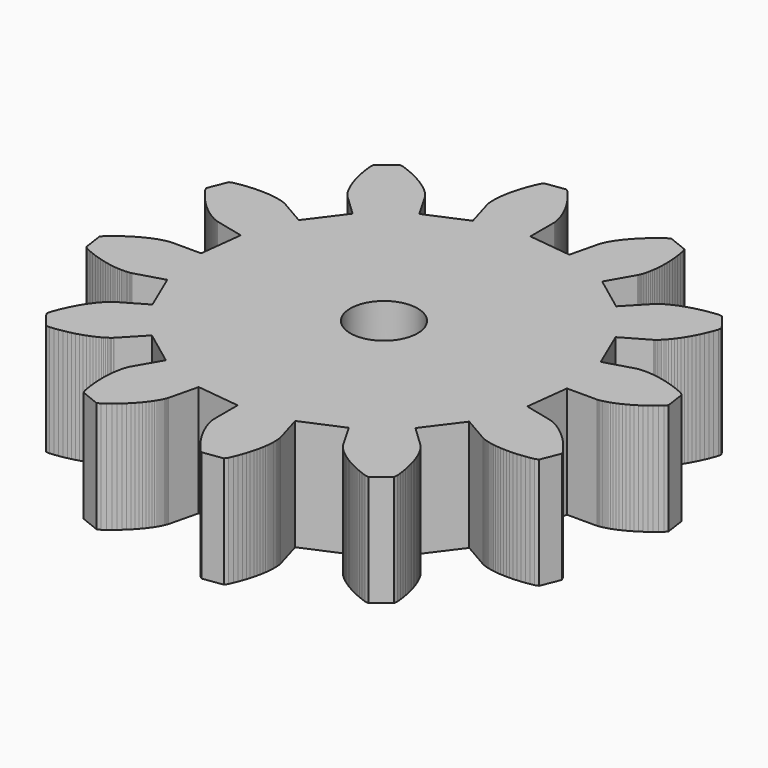
from build123d import *

# Parameters (mm, degrees)
F0_R     = 1.968172
F1_DEPTH = 6.5


with BuildPart() as f1:
    # F0 (on Top) → F1 (new body)
    with BuildSketch(Plane.XY):
        Polygon((10.393121, -2.51902), (10.693603, 2.5e-05), (12.445187, 2.5e-05), (12.467031, 0.001397), (12.498781, 0.004166), (12.541453, 0.009677), (12.595301, 0.017958), (12.658801, 0.028956), (12.731699, 0.04412), (12.814503, 0.064795), (12.906705, 0.089611), (13.008813, 0.119913), (13.119049, 0.157124), (13.238937, 0.201219), (13.366953, 0.252197), (13.502081, 0.311455), (13.646861, 0.378993), (13.796975, 0.456184), (13.955471, 0.54163), (14.119301, 0.636702), (14.290243, 0.742798), (14.466773, 0.859942), (14.648637, 0.988085), (14.834565, 1.127277), (15.024811, 1.278865), (15.217597, 1.44145), (15.349931, 1.61097), (15.181783, 2.780919), (15.006777, 2.906319), (14.775383, 3.009697), (14.550847, 3.100629), (14.332915, 3.181909), (14.122095, 3.253588), (13.920927, 3.315589), (13.726617, 3.369335), (13.541959, 3.414827), (13.365683, 3.452038), (13.200329, 3.483712), (13.043103, 3.50713), (12.895783, 3.526434), (12.757861, 3.538855), (12.631115, 3.54711), (12.514021, 3.551225), (12.407849, 3.552622), (12.312853, 3.551225), (12.227509, 3.54711), (12.152833, 3.540227), (12.089587, 3.533318), (12.035739, 3.526434), (11.993067, 3.519551), (11.961317, 3.512642), (11.940743, 3.508527), (11.928297, 3.505759), (10.259517, 3.015183), (9.260459, 5.346852), (10.768025, 6.216371), (10.777677, 6.223254), (10.795711, 6.235675), (10.821873, 6.253582), (10.856163, 6.279769), (10.898835, 6.312814), (10.948619, 6.354166), (11.003737, 6.403772), (11.065713, 6.46303), (11.133277, 6.530543), (11.204905, 6.607734), (11.283391, 6.695923), (11.364671, 6.793763), (11.448745, 6.902628), (11.536883, 7.021119), (11.627815, 7.15203), (11.720271, 7.293991), (11.815267, 7.44695), (11.908993, 7.612304), (12.003989, 7.788707), (12.099239, 7.978877), (12.191441, 8.18007), (12.283897, 8.393684), (12.372035, 8.619668), (12.458903, 8.858072), (12.487859, 9.070264), (11.756085, 9.999167), (11.543995, 10.021265), (11.291773, 9.993579), (11.050473, 9.960559), (10.821873, 9.921951), (10.603941, 9.879279), (10.397439, 9.832289), (10.203129, 9.781362), (10.019741, 9.72759), (9.848799, 9.672498), (9.689008, 9.615983), (9.541586, 9.559493), (9.405163, 9.501607), (9.279738, 9.44372), (9.165387, 9.38723), (9.062009, 9.333484), (8.96968, 9.281135), (8.888374, 9.231528), (8.816721, 9.184665), (8.75472, 9.14334), (8.702345, 9.104732), (8.661019, 9.071635), (8.603132, 9.023426), (8.586572, 9.008288), (8.578317, 9.000007), (7.378065, 7.740472), (5.346852, 9.260459), (6.216371, 10.768025), (6.221882, 10.777677), (6.231534, 10.796981), (6.245301, 10.827207), (6.263208, 10.867339), (6.282512, 10.916869), (6.304559, 10.977575), (6.326607, 11.047679), (6.351397, 11.128959), (6.376213, 11.222685), (6.399632, 11.326063), (6.42305, 11.440617), (6.445098, 11.565839), (6.464402, 11.702237), (6.480962, 11.849811), (6.494755, 12.008307), (6.504381, 12.176455), (6.508496, 12.356795), (6.508496, 12.547041), (6.501613, 12.748209), (6.489217, 12.959029), (6.468542, 13.179501), (6.440983, 13.411149), (6.405169, 13.650925), (6.359677, 13.900353), (6.279769, 14.098727), (5.181448, 14.538401), (4.985766, 14.450009), (4.781829, 14.299895), (4.590263, 14.151051), (4.411142, 14.003731), (4.244416, 13.857681), (4.088663, 13.712901), (3.945357, 13.572439), (3.814445, 13.434517), (3.693185, 13.302183), (3.582949, 13.172643), (3.483712, 13.048691), (3.394151, 12.930073), (3.314217, 12.818567), (3.243936, 12.712395), (3.181909, 12.614605), (3.126816, 12.522149), (3.081325, 12.438075), (3.042742, 12.362383), (3.009697, 12.294819), (2.984856, 12.236907), (2.96418, 12.187377), (2.949042, 12.145975), (2.937993, 12.115749), (2.932506, 12.095175), (2.928366, 12.083999), (2.51907, 10.393121), (2.5e-05, 10.693603), (2.5e-05, 12.445187), (-0.001346, 12.467031), (-0.004089, 12.498781), (-0.009601, 12.541453), (-0.017882, 12.595301), (-0.028905, 12.658801), (-0.044069, 12.731699), (-0.064745, 12.814503), (-0.089535, 12.906705), (-0.119837, 13.008813), (-0.157048, 13.119049), (-0.201168, 13.238937), (-0.25212, 13.366953), (-0.311404, 13.502081), (-0.378917, 13.646861), (-0.456108, 13.796975), (-0.541553, 13.955471), (-0.636626, 14.119301), (-0.742747, 14.290243), (-0.859866, 14.466773), (-0.988035, 14.648637), (-1.127201, 14.834565), (-1.278788, 15.024811), (-1.441374, 15.217597), (-1.610893, 15.349931), (-2.780843, 15.181783), (-2.906268, 15.006777), (-3.009595, 14.775383), (-3.100578, 14.550847), (-3.181858, 14.332915), (-3.253537, 14.122095), (-3.315513, 13.920927), (-3.369285, 13.726617), (-3.414751, 13.541959), (-3.451962, 13.365683), (-3.483635, 13.200329), (-3.50708, 13.043103), (-3.526358, 12.895783), (-3.538753, 12.757861), (-3.547034, 12.631115), (-3.551174, 12.514021), (-3.552546, 12.407849), (-3.551174, 12.312853), (-3.547034, 12.227509), (-3.54015, 12.152833), (-3.533242, 12.089587), (-3.526358, 12.035739), (-3.5195, 11.993067), (-3.512566, 11.961317), (-3.508451, 11.940743), (-3.505683, 11.928297), (-3.015132, 10.259517), (-5.346725, 9.260459), (-6.216294, 10.768025), (-6.223178, 10.777677), (-6.235598, 10.795711), (-6.253505, 10.821873), (-6.279693, 10.856163), (-6.312738, 10.898835), (-6.354089, 10.948619), (-6.403696, 11.003737), (-6.462954, 11.065713), (-6.530492, 11.133277), (-6.607658, 11.204905), (-6.695872, 11.283391), (-6.793687, 11.364671), (-6.902552, 11.448745), (-7.021043, 11.536883), (-7.15198, 11.627815), (-7.29394, 11.720271), (-7.446899, 11.815267), (-7.612253, 11.908993), (-7.788631, 12.003989), (-7.9788, 12.099239), (-8.179994, 12.191441), (-8.393608, 12.283897), (-8.619592, 12.372035), (-8.857996, 12.458903), (-9.070188, 12.487859), (-9.998989, 11.756085), (-10.021037, 11.543995), (-9.993503, 11.291773), (-9.960432, 11.050473), (-9.92185, 10.821873), (-9.879127, 10.603941), (-9.832264, 10.397439), (-9.781286, 10.203129), (-9.72754, 10.019741), (-9.672422, 9.848799), (-9.615907, 9.689008), (-9.559442, 9.541586), (-9.50153, 9.405163), (-9.443644, 9.279738), (-9.38718, 9.165387), (-9.333408, 9.062009), (-9.281058, 8.96968), (-9.231452, 8.888374), (-9.184615, 8.816721), (-9.143263, 8.75472), (-9.104655, 8.702345), (-9.071585, 8.661019), (-9.02335, 8.603132), (-9.008212, 8.586572), (-8.999931, 8.578317), (-7.740396, 7.378065), (-9.260383, 5.346852), (-10.767949, 6.216371), (-10.777601, 6.221882), (-10.796905, 6.231534), (-10.827207, 6.245301), (-10.867187, 6.263208), (-10.916793, 6.282512), (-10.977423, 6.304559), (-11.047705, 6.326607), (-11.12901, 6.351397), (-11.222711, 6.376213), (-11.326063, 6.399632), (-11.440439, 6.42305), (-11.565865, 6.445098), (-11.702263, 6.464402), (-11.84971, 6.480962), (-12.008206, 6.494755), (-12.176303, 6.504381), (-12.356821, 6.508496), (-12.547016, 6.508496), (-12.748209, 6.501613), (-12.959029, 6.489217), (-13.179527, 6.468542), (-13.411022, 6.440983), (-13.650824, 6.405169), (-13.900226, 6.359677), (-14.098676, 6.279769), (-14.538274, 5.181448), (-14.450085, 4.985766), (-14.29987, 4.781829), (-14.151051, 4.590263), (-14.003579, 4.411142), (-13.857529, 4.244416), (-13.712825, 4.088663), (-13.572261, 3.945357), (-13.434466, 3.814445), (-13.302158, 3.693185), (-13.172643, 3.582949), (-13.048615, 3.483712), (-12.930099, 3.394151), (-12.818466, 3.314217), (-12.71237, 3.243936), (-12.614529, 3.181909), (-12.5222, 3.126816), (-12.438126, 3.081325), (-12.362358, 3.042742), (-12.294819, 3.009697), (-12.236933, 2.984856), (-12.187326, 2.96418), (-12.146001, 2.949042), (-12.115673, 2.937993), (-12.094997, 2.932506), (-12.083974, 2.928366), (-10.393121, 2.51907), (-10.693552, 2.5e-05), (-12.445035, 2.5e-05), (-12.467082, -0.001346), (-12.498781, -0.004089), (-12.541504, -0.009601), (-12.595225, -0.017882), (-12.658623, -0.028905), (-12.731648, -0.044069), (-12.814351, -0.064745), (-12.90668, -0.089535), (-13.008635, -0.119837), (-13.118897, -0.157048), (-13.238785, -0.201168), (-13.366928, -0.25212), (-13.50198, -0.311404), (-13.646683, -0.378917), (-13.796874, -0.456108), (-13.95537, -0.541553), (-14.119352, -0.636626), (-14.290218, -0.742747), (-14.466621, -0.859866), (-14.64851, -0.988035), (-14.83454, -1.127201), (-15.02471, -1.278788), (-15.217648, -1.441374), (-15.349931, -1.610893), (-15.181809, -2.780843), (-15.006803, -2.906268), (-14.775282, -3.009595), (-14.550669, -3.100578), (-14.332941, -3.181858), (-14.122095, -3.253537), (-13.920902, -3.315513), (-13.726617, -3.369285), (-13.541959, -3.414751), (-13.365556, -3.451962), (-13.200202, -3.483635), (-13.043103, -3.50708), (-12.895656, -3.526358), (-12.757836, -3.538753), (-12.631064, -3.547034), (-12.51392, -3.551174), (-12.407824, -3.552546), (-12.312726, -3.551174), (-12.227306, -3.547034), (-12.152884, -3.54015), (-12.089486, -3.533242), (-12.035765, -3.526358), (-11.993042, -3.5195), (-11.961317, -3.512566), (-11.940692, -3.508451), (-11.928272, -3.505683), (-10.259441, -3.015132), (-9.260383, -5.346725), (-10.767949, -6.216294), (-10.777601, -6.223178), (-10.795533, -6.235598), (-10.821695, -6.253505), (-10.856138, -6.279693), (-10.898861, -6.312738), (-10.948492, -6.354089), (-11.00361, -6.403696), (-11.065612, -6.462954), (-11.13315, -6.530492), (-11.204778, -6.607658), (-11.28334, -6.695872), (-11.36462, -6.793687), (-11.448694, -6.902552), (-11.536883, -7.021043), (-11.627841, -7.15198), (-11.720195, -7.29394), (-11.815267, -7.446899), (-11.908968, -7.612253), (-12.00404, -7.788631), (-12.099138, -7.9788), (-12.191467, -8.179994), (-12.283796, -8.393608), (-12.371984, -8.619592), (-12.458802, -8.857996), (-12.487758, -9.070188), (-11.756009, -9.998989), (-11.543817, -10.021037), (-11.291595, -9.993503), (-11.050448, -9.960432), (-10.821695, -9.92185), (-10.603967, -9.879127), (-10.397287, -9.832264), (-10.202977, -9.781286), (-10.019665, -9.72754), (-9.848825, -9.672422), (-9.688932, -9.615907), (-9.54151, -9.559442), (-9.405087, -9.50153), (-9.279687, -9.443644), (-9.165311, -9.38718), (-9.061933, -9.333408), (-8.969629, -9.281058), (-8.888298, -9.231452), (-8.81667, -9.184615), (-8.754643, -9.143263), (-8.702294, -9.104655), (-8.660943, -9.071585), (-8.603056, -9.02335), (-8.586495, -9.008212), (-8.57824, -8.999931), (-7.377989, -7.740396), (-5.346725, -9.260383), (-6.216294, -10.767949), (-6.221806, -10.777601), (-6.231458, -10.796905), (-6.245225, -10.827207), (-6.263157, -10.867187), (-6.282436, -10.916793), (-6.304483, -10.977423), (-6.32653, -11.047705), (-6.351346, -11.12901), (-6.376137, -11.222711), (-6.399555, -11.326063), (-6.423, -11.440439), (-6.445047, -11.565865), (-6.464325, -11.702263), (-6.480886, -11.84971), (-6.494678, -12.008206), (-6.504305, -12.176303), (-6.508445, -12.356821), (-6.508445, -12.547016), (-6.501562, -12.748209), (-6.489141, -12.959029), (-6.468466, -13.179527), (-6.440907, -13.411022), (-6.405067, -13.650824), (-6.359601, -13.900226), (-6.279693, -14.098676), (-5.181397, -14.538274), (-4.985715, -14.450085), (-4.781753, -14.29987), (-4.590212, -14.151051), (-4.411066, -14.003579), (-4.244315, -13.857529), (-4.088587, -13.712825), (-3.94528, -13.572261), (-3.814369, -13.434466), (-3.693084, -13.302158), (-3.582848, -13.172643), (-3.483635, -13.048615), (-3.394075, -12.930099), (-3.314141, -12.818466), (-3.243859, -12.71237), (-3.181858, -12.614529), (-3.12674, -12.5222), (-3.081274, -12.438126), (-3.042666, -12.362358), (-3.009595, -12.294819), (-2.984779, -12.236933), (-2.964104, -12.187326), (-2.948965, -12.146001), (-2.937942, -12.115673), (-2.93243, -12.094997), (-2.928315, -12.083974), (-2.51902, -10.393121), (2.5e-05, -10.693552), (2.5e-05, -12.445035), (0.001397, -12.467082), (0.004166, -12.498781), (0.009677, -12.541504), (0.017958, -12.595225), (0.028956, -12.658623), (0.04412, -12.731648), (0.064795, -12.814351), (0.089611, -12.90668), (0.119913, -13.008635), (0.157124, -13.118897), (0.201219, -13.238785), (0.252197, -13.366928), (0.311455, -13.50198), (0.378993, -13.646683), (0.456184, -13.796874), (0.54163, -13.95537), (0.636702, -14.119352), (0.742798, -14.290218), (0.859942, -14.466621), (0.988085, -14.64851), (1.127277, -14.83454), (1.278865, -15.02471), (1.44145, -15.217648), (1.61097, -15.349931), (2.780919, -15.181809), (2.906319, -15.006803), (3.009697, -14.775282), (3.100629, -14.550669), (3.181909, -14.332941), (3.253588, -14.122095), (3.315589, -13.920902), (3.369335, -13.726617), (3.414827, -13.541959), (3.452038, -13.365556), (3.483712, -13.200202), (3.50713, -13.043103), (3.526434, -12.895656), (3.538855, -12.757836), (3.54711, -12.631064), (3.551225, -12.51392), (3.552622, -12.407824), (3.551225, -12.312726), (3.54711, -12.227306), (3.540227, -12.152884), (3.533318, -12.089486), (3.526434, -12.035765), (3.519551, -11.993042), (3.512642, -11.961317), (3.508527, -11.940692), (3.505759, -11.928272), (3.015183, -10.259441), (5.346852, -9.260383), (6.216371, -10.767949), (6.223254, -10.777601), (6.235675, -10.795533), (6.253582, -10.821695), (6.279769, -10.856138), (6.312814, -10.898861), (6.354166, -10.948492), (6.403772, -11.00361), (6.46303, -11.065612), (6.530543, -11.13315), (6.607734, -11.204778), (6.695923, -11.28334), (6.793763, -11.36462), (6.902628, -11.448694), (7.021119, -11.536883), (7.15203, -11.627841), (7.293991, -11.720195), (7.44695, -11.815267), (7.612304, -11.908968), (7.788707, -12.00404), (7.978877, -12.099138), (8.18007, -12.191467), (8.393684, -12.283796), (8.619668, -12.371984), (8.858072, -12.458802), (9.070264, -12.487758), (9.999167, -11.756009), (10.021265, -11.543817), (9.993579, -11.291595), (9.960559, -11.050448), (9.921951, -10.821695), (9.879279, -10.603967), (9.832289, -10.397287), (9.781362, -10.202977), (9.72759, -10.019665), (9.672498, -9.848825), (9.615983, -9.688932), (9.559493, -9.54151), (9.501607, -9.405087), (9.44372, -9.279687), (9.38723, -9.165311), (9.333484, -9.061933), (9.281135, -8.969629), (9.231528, -8.888298), (9.184665, -8.81667), (9.14334, -8.754643), (9.104732, -8.702294), (9.071635, -8.660943), (9.023426, -8.603056), (9.008288, -8.586495), (9.000007, -8.57824), (7.740472, -7.377989), (9.260459, -5.346725), (10.768025, -6.216294), (10.777677, -6.221806), (10.796981, -6.231458), (10.827207, -6.245225), (10.867339, -6.263157), (10.916869, -6.282436), (10.977575, -6.304483), (11.047679, -6.32653), (11.128959, -6.351346), (11.222685, -6.376137), (11.326063, -6.399555), (11.440617, -6.423), (11.565839, -6.445047), (11.702237, -6.464325), (11.849811, -6.480886), (12.008307, -6.494678), (12.176455, -6.504305), (12.356795, -6.508445), (12.547041, -6.508445), (12.748209, -6.501562), (12.959029, -6.489141), (13.179501, -6.468466), (13.411149, -6.440907), (13.650925, -6.405067), (13.900353, -6.359601), (14.098727, -6.279693), (14.538401, -5.181397), (14.450009, -4.985715), (14.299895, -4.781753), (14.151051, -4.590212), (14.003731, -4.411066), (13.857681, -4.244315), (13.712901, -4.088587), (13.572439, -3.94528), (13.434517, -3.814369), (13.302183, -3.693084), (13.172643, -3.582848), (13.048691, -3.483635), (12.930073, -3.394075), (12.818567, -3.314141), (12.712395, -3.243859), (12.614605, -3.181858), (12.522149, -3.12674), (12.438075, -3.081274), (12.362383, -3.042666), (12.294819, -3.009595), (12.236907, -2.984779), (12.187377, -2.964104), (12.145975, -2.948965), (12.115749, -2.937942), (12.095175, -2.93243), (12.083999, -2.928315), align=None)
        Circle(F0_R, mode=Mode.SUBTRACT)
    extrude(amount=F1_DEPTH)


solid = f1.part
